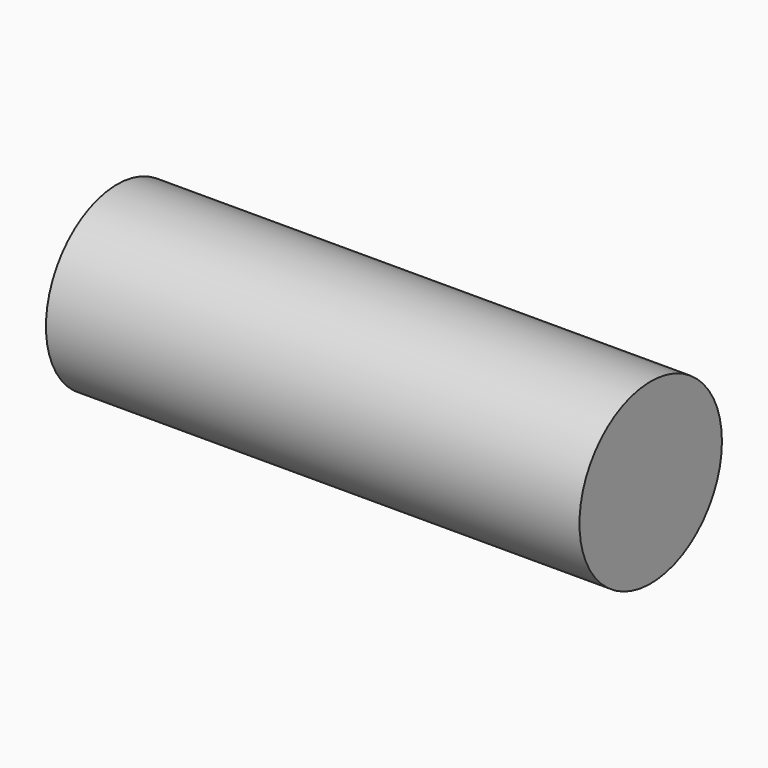
from build123d import *

# Parameters (mm, degrees)
F1_DEPTH = 127


with BuildPart() as f1:
    # F0 (on Right) → F1 (new body)
    with BuildSketch(Plane.YZ):
        with BuildLine():
            ThreePointArc((-21.192321, 0), (0, -21.192321), (21.192321, 0))
            ThreePointArc((21.192321, 0), (0, 21.192321), (-21.192321, 0))
        make_face()
    extrude(amount=F1_DEPTH)


solid = f1.part
